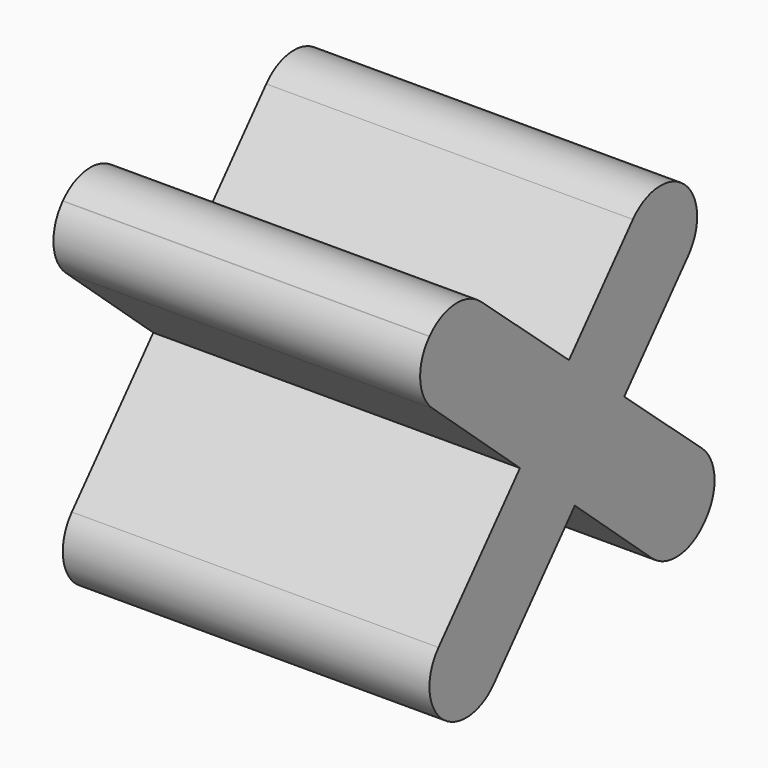
from build123d import *

# Parameters (mm, degrees)
F1_DEPTH      = 25.4
F1_DEPTH_BACK = 25.4


with BuildPart() as f1:
    # F0 (on Right) → F1 (new body, two sides)
    with BuildSketch(Plane.YZ) as f1_sk:
        with BuildLine():
            ThreePointArc((-14.549883, 22.834537), (-19.130034, 24.389879), (-23.476849, 22.268069))
            Line((-23.476849, 22.268069), (-23.509828, 22.230916))
            ThreePointArc((-23.509828, 22.230916), (-25.099661, 17.638226), (-22.976321, 13.266522))
            Line((-22.976321, 13.266522), (-7.82152, -0.185756))
            Line((-7.82152, -0.185756), (-21.926013, -16.328933))
            ThreePointArc((-21.926013, -16.328933), (-23.464547, -21.118882), (-21.035695, -25.524717))
            ThreePointArc((-21.035695, -25.524717), (-16.532167, -26.827395), (-12.362188, -24.684964))
            Line((-12.362188, -24.684964), (1.676675, -8.616903))
            Line((1.676675, -8.616903), (15.013823, -20.455727))
            ThreePointArc((15.013823, -20.455727), (19.606513, -22.04556), (23.978217, -19.922219))
            Line((23.978217, -19.922219), (24.276055, -19.586687))
            ThreePointArc((24.276055, -19.586687), (25.864358, -14.969107), (23.70512, -10.589331))
            Line((23.70512, -10.589331), (10.235607, 1.179149))
            Line((10.235607, 1.179149), (21.299229, 13.841924))
            ThreePointArc((21.299229, 13.841924), (22.852943, 18.446959), (20.695333, 22.801852))
            ThreePointArc((20.695333, 22.801852), (16.090298, 24.355565), (11.735405, 22.197955))
            Line((11.735405, 22.197955), (0.671783, 9.535181))
            Line((0.671783, 9.535181), (-14.549883, 22.834537))
        make_face()
    extrude(amount=F1_DEPTH)
    extrude(f1_sk.sketch, amount=-F1_DEPTH_BACK)


solid = f1.part
